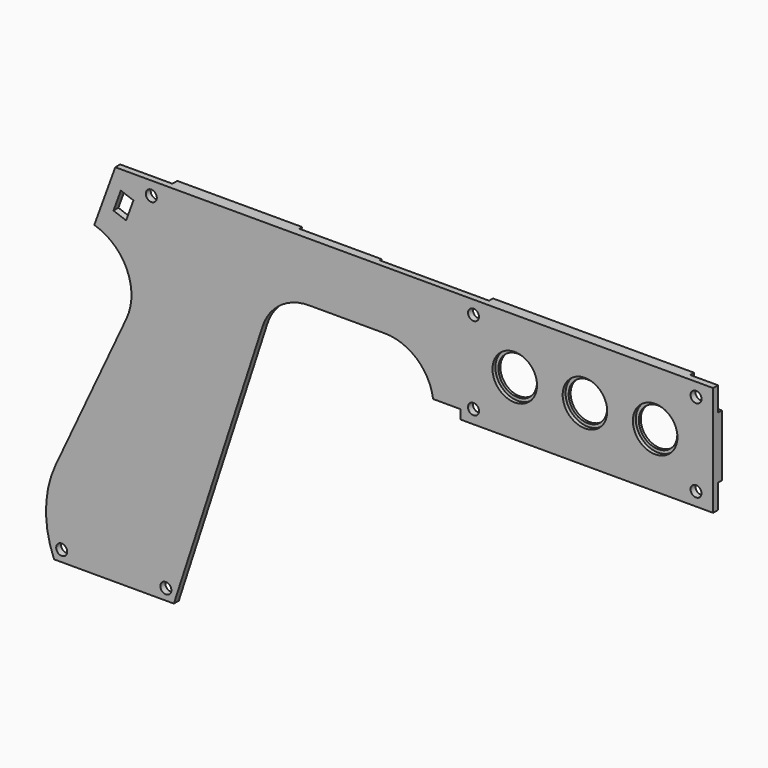
from build123d import *

# Parameters (mm, degrees)
EXTRUDE086_DEPTH = 0.8
EXTRUDE087_DEPTH = 2
SKETCH084_R      = 1.8
EXTRUDE084_DEPTH = 1.6
SKETCH082_W      = 82.8
SKETCH082_H      = 36
SKETCH082_R      = 1.8
EXTRUDE082_DEPTH = 1.6
SKETCH076_R      = 7.3
EXTRUDE077_DEPTH = 1.2
SKETCH074_R      = 1.8
SKETCH074_R_2    = 6.3
EXTRUDE076_DEPTH = 2


with BuildPart() as obj1:
    # Sketch086 → Extrude086 (new body)
    with BuildSketch(Plane(origin=(0, 0, 2), x_dir=(1, 0, 0), z_dir=(0, -1, 0))):
        with BuildLine():
            Line((-137.814627, 37.2), (-142.792829, 21.878669))
            Line((-117.972457, 21.878669), (-142.792829, 21.878669))
            ThreePointArc((-117.972457, 21.878669), (-116.209101, 22.451618), (-115.119287, 23.951618))
            Line((-110.814627, 37.2), (-115.119287, 23.951618))
            Line((-137.814627, 37.2), (-110.814627, 37.2))
        make_face()
    extrude(amount=-EXTRUDE086_DEPTH)


with BuildPart() as obj1_1:
    # Extrude086 placement: moved
    add(obj1.part.moved(Location((0, 2, 0))))


with BuildPart() as extrude087:
    # Sketch087 → Extrude087 (new body)
    with BuildSketch(Plane.XZ):
        with BuildLine():
            Line((-181.329747, 20.074442), (-144.028897, 20.074442))
            Line((-137.814627, 39.2), (-144.028897, 20.074442))
            Line((-178.753577, 39.2), (-137.814627, 39.2))
            Line((-178.753577, 39.2), (-180.790744, 33.602929))
            ThreePointArc((-184.079668, 31.3), (-182.07215, 31.932968), (-180.790744, 33.602929))
            Line((-184.079668, 31.3), (-186.138695, 31.3))
            Line((-186.138695, 31.3), (-190.224464, 20.074442))
            Line((-181.329747, 20.074442), (-190.224464, 20.074442))
        make_face()
    extrude(amount=-EXTRUDE087_DEPTH)


with BuildPart() as extrude087_1:
    # Extrude087 placement: moved
    add(extrude087.part.moved(Location((0, 2, 0))))


with BuildPart() as extrude084:
    # Sketch084 → Extrude084 (new body)
    with BuildSketch(Plane.XZ):
        with BuildLine():
            ThreePointArc((-78.51, 31.3), (-76.035126, 32.325126), (-75.01, 34.8))
            Line((-75.01, 39.2), (-75.01, 34.8))
            Line((-82.8, 39.2), (-75.01, 39.2))
            Line((-82.8, 31.3), (-82.8, 39.2))
            Line((-82.8, 31.3), (-78.51, 31.3))
        make_face()
        with Locations((-78.51, 34.8)):
            Circle(SKETCH084_R, mode=Mode.SUBTRACT)
        with BuildLine():
            ThreePointArc((-9.1, 34.8), (-8.074874, 32.325126), (-5.6, 31.3))
            Line((-5.6, 31.3), (0, 31.3))
            Line((0, 39.2), (0, 31.3))
            Line((-9.1, 39.2), (0, 39.2))
            Line((-9.1, 39.2), (-9.1, 34.8))
        make_face()
        with Locations((-5.6, 34.8)):
            Circle(SKETCH084_R, mode=Mode.SUBTRACT)
        with BuildLine():
            ThreePointArc((-75.01, 7.6), (-76.035126, 10.074874), (-78.51, 11.1))
            Line((-82.8, 11.1), (-78.51, 11.1))
            Line((-82.8, 3.2), (-82.8, 11.1))
            Line((-75.01, 3.2), (-82.8, 3.2))
            Line((-75.01, 7.6), (-75.01, 3.2))
        make_face()
        with Locations((-78.51, 7.6)):
            Circle(SKETCH084_R, mode=Mode.SUBTRACT)
        with BuildLine():
            ThreePointArc((-5.6, 11.1), (-8.074874, 10.074874), (-9.1, 7.6))
            Line((-9.1, 7.6), (-9.1, 3.2))
            Line((0, 3.2), (-9.1, 3.2))
            Line((0, 11.1), (0, 3.2))
            Line((0, 11.1), (-5.6, 11.1))
        make_face()
        with Locations((-5.6, 7.6)):
            Circle(SKETCH084_R, mode=Mode.SUBTRACT)
    extrude(amount=-EXTRUDE084_DEPTH)


with BuildPart() as extrude084_1:
    # Extrude084 placement: moved
    add(extrude084.part.moved(Location((0, 2, 0))))


with BuildPart() as cut047:
    # Sketch082 → Extrude082 (new body)
    with BuildSketch(Plane.XZ):
        with Locations((-41.4, 21.2)):
            Rectangle(SKETCH082_W, SKETCH082_H)
        with Locations((-78.51, 34.8)):
            Circle(SKETCH082_R, mode=Mode.SUBTRACT)
        with Locations((-5.6, 34.8)):
            Circle(SKETCH082_R, mode=Mode.SUBTRACT)
        with Locations((-5.6, 7.6)):
            Circle(SKETCH082_R, mode=Mode.SUBTRACT)
        with Locations((-78.51, 7.6)):
            Circle(SKETCH082_R, mode=Mode.SUBTRACT)
        with BuildLine():
            ThreePointArc((-65, 31.2), (-75, 21.2), (-65, 11.2))
            Line((-65, 11.2), (-19, 11.2))
            ThreePointArc((-19, 11.2), (-9, 21.2), (-19, 31.2))
            Line((-65, 31.2), (-19, 31.2))
        make_face(mode=Mode.SUBTRACT)
    extrude(amount=-EXTRUDE082_DEPTH)


with BuildPart() as cut047_1:
    # Extrude082 placement: moved
    add(cut047.part.moved(Location((0, 2, 0))))

    # Cut047: cut Extrude084
    add(extrude084_1.part, mode=Mode.SUBTRACT)


with BuildPart() as obj2:
    # Sketch076 → Extrude077 (new body)
    with BuildSketch(Plane.XZ):
        with Locations((-65, 21.2)):
            Circle(SKETCH076_R)
        with Locations((-42, 21.2)):
            Circle(SKETCH076_R)
        with Locations((-19, 21.2)):
            Circle(SKETCH076_R)
    extrude(amount=-EXTRUDE077_DEPTH)


with BuildPart() as fusion007:
    # Sketch074 → Extrude076 (new body)
    with BuildSketch(Plane.XZ):
        with BuildLine():
            Line((-82.8, 3.2), (0, 3.2))
            Line((0, 3.2), (0, 39.2))
            Line((-195.886839, 39.2), (0, 39.2))
            Line((-202.764796, 20.302968), (-195.886839, 39.2))
            ThreePointArc((-192.175575, -3.18451), (-192.085048, 10.987093), (-202.764796, 20.302968))
            Line((-192.175575, -3.18451), (-215.419579, -53.031439))
            ThreePointArc((-215.419579, -53.031439), (-218.578907, -66.677212), (-215.93199, -80.431568))
            Line((-215.93199, -80.431568), (-176.68528, -80.431568))
            Line((-147.645309, 8.944272), (-176.68528, -80.431568))
            ThreePointArc((-132.428405, 20), (-141.832969, 16.944272), (-147.645309, 8.944272))
            Line((-132.428405, 20), (-107.6, 20))
            ThreePointArc((-91.751972, 6.2), (-97.09286, 16.066483), (-107.6, 20))
            Line((-82.8, 6.2), (-91.751972, 6.2))
            Line((-82.8, 3.2), (-82.8, 6.2))
        make_face()
        with Locations((-213.443268, -76.831568)):
            Circle(SKETCH074_R, mode=Mode.SUBTRACT)
        with Locations((-179.304663, -76.831568)):
            Circle(SKETCH074_R, mode=Mode.SUBTRACT)
        with Locations((-184.079668, 34.8)):
            Circle(SKETCH074_R, mode=Mode.SUBTRACT)
        with Locations((-78.51, 34.8)):
            Circle(SKETCH074_R, mode=Mode.SUBTRACT)
        with Locations((-78.51, 7.6)):
            Circle(SKETCH074_R, mode=Mode.SUBTRACT)
        with Locations((-5.6, 34.8)):
            Circle(SKETCH074_R, mode=Mode.SUBTRACT)
        with Locations((-5.6, 7.6)):
            Circle(SKETCH074_R, mode=Mode.SUBTRACT)
        with Locations((-19, 21.2)):
            Circle(SKETCH074_R_2, mode=Mode.SUBTRACT)
        with Locations((-42, 21.2)):
            Circle(SKETCH074_R_2, mode=Mode.SUBTRACT)
        with Locations((-65, 21.2)):
            Circle(SKETCH074_R_2, mode=Mode.SUBTRACT)
        Polygon((-189.938695, 31.567195), (-192.332836, 24.989347), (-196.467483, 26.494236), (-194.073342, 33.072084), (-193.885404, 33.00368), (-190.126633, 31.635599), align=None, mode=Mode.SUBTRACT)
    extrude(amount=-EXTRUDE076_DEPTH)

    # Cut044: cut obj2
    add(obj2.part, mode=Mode.SUBTRACT)

    # Fusion005: union Cut047
    add(cut047_1.part)

    # Fusion007: union obj1, Extrude087
    add(obj1_1.part)
    add(extrude087_1.part)


solid = fusion007.part
